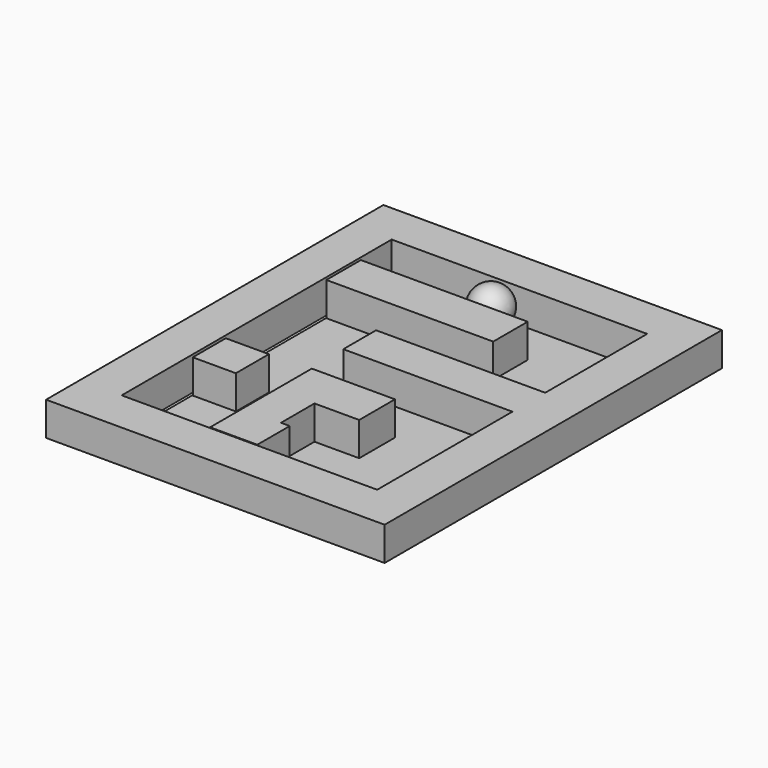
from build123d import *

# Parameters (mm, degrees)
SKETCH_W      = 60.416231
SKETCH_H      = 80.386448
PAD_DEPTH     = 4
SKETCH001_W   = 39.621
SKETCH001_H   = 10.23228
SKETCH001_W_2 = 40.450142
SKETCH001_H_2 = 9.733288
SKETCH001_W_3 = 10.233118
SKETCH001_H_3 = 9.79864
PAD001_DEPTH  = 8
SKETCH002_W   = 80.386456
SKETCH002_H   = 100.103886
SKETCH002_W_2 = 60.66902
SKETCH002_H_2 = 80.133665
PAD002_DEPTH  = 8
POCKET_DEPTH  = 12


with BuildPart() as body:
    # Sketch → Pad (new body)
    with BuildSketch(Plane.XY):
        with Locations((0.277603, -9.869257)):
            Rectangle(SKETCH_W, SKETCH_H)
    extrude(amount=PAD_DEPTH)

    # Sketch001 (on Face6 of Pad) → Pad001 (join)
    with BuildSketch(Plane.XY.offset(4)):
        with Locations((-10.053363, 14.867972)):
            Rectangle(SKETCH001_W, SKETCH001_H)
        with Locations((10.178181, -5.132365)):
            Rectangle(SKETCH001_W_2, SKETCH001_H_2)
        Polygon((-9.736984, -49.900822), (-9.736984, -19.727972), (10.009927, -19.727972), (10.009927, -30.345051), (-0.607156, -30.345051), (-0.607156, -40.285923), (1.472934, -40.285923), (1.472934, -49.900822), align=None)
        with Locations((-24.68278, -25.077216)):
            Rectangle(SKETCH001_W_3, SKETCH001_H_3)
    extrude(amount=PAD001_DEPTH)

    # Sketch002 (on Face5 of Pad001) → Pad002 (join)
    with BuildSketch(Plane.XY.offset(4)):
        with Locations((-0.218813, -10.196108)):
            Rectangle(SKETCH002_W, SKETCH002_H)
        with Locations((-0.218814, -10.069714)):
            Rectangle(SKETCH002_W_2, SKETCH002_H_2, mode=Mode.SUBTRACT)
    extrude(amount=PAD002_DEPTH)

    # Sketch003 (on Face7 of Pad002) → Pocket (cut)
    with BuildSketch(Plane.XY.offset(4)):
        Polygon((-0.891509, -40.346394), (0, -49.938282), (9.958334, -49.938282), (9.958334, -39.87466), align=None)
    extrude(amount=-POCKET_DEPTH, mode=Mode.SUBTRACT)


with BuildPart() as sphere:
    # Sphere → Sphere (revolve)
    with BuildSketch(Plane(origin=(-3, 25, 9), x_dir=(1, 0, 0), z_dir=(0, -1, 0))):
        with BuildLine():
            ThreePointArc((0, -4.7), (4.7, 0), (0, 4.7))
            Line((0, 4.7), (0, -4.7))
        make_face()
    revolve(axis=Axis((-3, 25, 9), (0, 0, 1)))


solid = Compound([body.part, sphere.part])
